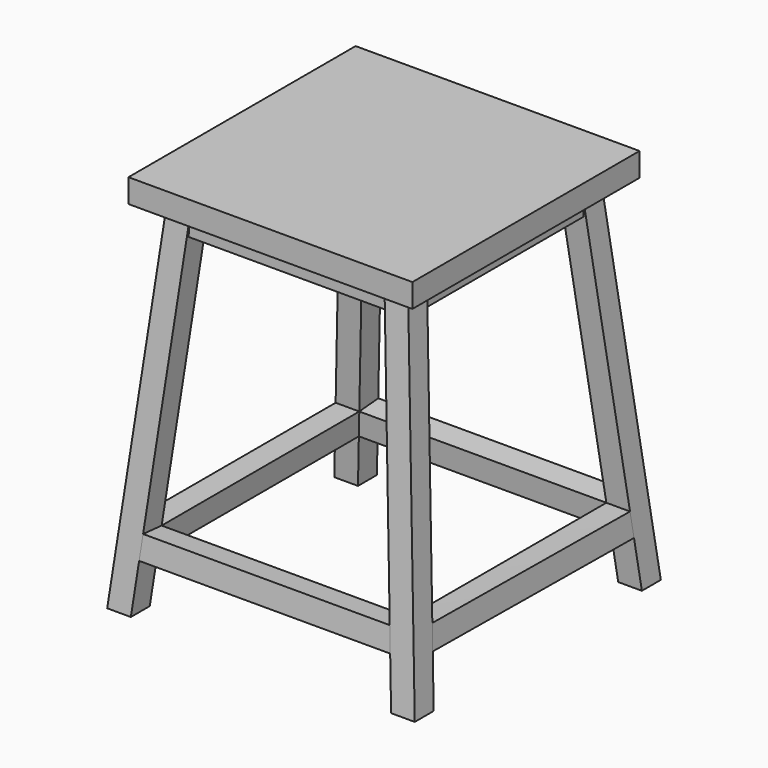
from build123d import *

# Parameters (mm, degrees)
F0_W      = 50
F0_H      = 50
F2_W      = 50
F2_H      = 50
F3_W      = 600
F3_H      = 600
F8_DEPTH  = 50
F9_W      = 409.375
F9_H      = 409.375
F10_DEPTH = 50


with BuildPart() as f4:
    # F0 (on Top) → F4 section 0
    with BuildSketch(Plane.XY):
        with Locations((-225, -225)):
            Rectangle(F0_W, F0_H)
    # F2 (on offset) → F4 section 1
    with BuildSketch(Plane.XY.offset(-800)):
        with Locations((-300, -300)):
            Rectangle(F2_W, F2_H)
    loft()



with BuildPart() as f5:
    # F0 (on Top) → F5 section 0
    with BuildSketch(Plane.XY):
        with Locations((225, -225)):
            Rectangle(F0_W, F0_H)
    # F2 (on offset) → F5 section 1
    with BuildSketch(Plane.XY.offset(-800)):
        with Locations((300, -300)):
            Rectangle(F2_W, F2_H)
    loft()


with BuildPart() as f6:
    # F0 (on Top) → F6 section 0
    with BuildSketch(Plane.XY):
        with Locations((-225, 225)):
            Rectangle(F0_W, F0_H)
    # F2 (on offset) → F6 section 1
    with BuildSketch(Plane.XY.offset(-800)):
        with Locations((-300, 300)):
            Rectangle(F2_W, F2_H)
    loft()


with BuildPart() as f7:
    # F0 (on Top) → F7 section 0
    with BuildSketch(Plane.XY):
        with Locations((225, 225)):
            Rectangle(F0_W, F0_H)
    # F2 (on offset) → F7 section 1
    with BuildSketch(Plane.XY.offset(-800)):
        with Locations((300, 300)):
            Rectangle(F2_W, F2_H)
    loft()


with BuildPart() as f4_1:
    add(f4.part)

    add(f5.part)  # F8 merges F5

    add(f6.part)  # F8 merges F6

    add(f7.part)  # F8 merges F7
    # F3 (on Top) → F8 (join)
    with BuildSketch(Plane.XY):
        Rectangle(F3_W, F3_H)
    extrude(amount=-F8_DEPTH)

    # F9 (on face) → F10 (join)
    with BuildSketch(Plane(origin=(0, 0, -50), x_dir=(1, 0, 0), z_dir=(0, 0, -1))):
        Polygon((254.6875, -254.6875), (254.6875, -204.6875), (254.6875, 204.6875), (254.6875, 254.6875), (204.6875, 254.6875), (-204.6875, 254.6875), (-254.6875, 254.6875), (-254.6875, -254.6875), (-204.6875, -254.6875), (204.6875, -254.6875), align=None)
        Rectangle(F9_W, F9_H, mode=Mode.SUBTRACT)
    extrude(amount=F10_DEPTH)

    # F13 (on face) → F15 section 0
    with BuildSketch(Plane(origin=(-198.2575024201, 0, 18.5866408519), x_dir=(0, 1, 0), z_dir=(0.9956342261, 0, -0.0933407087))):
        Polygon((261.0594902568, -672.8252733026), (265.7063268379, -722.6088741144), (315.2744650336, -717.9821489666), (310.6276284526, -668.1985481548), align=None)
    # F14 (on face) → F15 section 1
    with BuildSketch(Plane(origin=(198.2575024201, 0, 18.5866408519), x_dir=(0, -1, 0), z_dir=(-0.9956342261, 0, -0.0933407087))):
        Polygon((-315.2744650336, -717.9821489666), (-265.7063268379, -722.6088741144), (-261.0594902568, -672.8252733026), (-310.6276284526, -668.1985481548), align=None)
    loft()

    # F12 (on face) → F18 section 0
    with BuildSketch(Plane(origin=(0, 198.2575024201, 18.5866408519), x_dir=(1, 0, 0), z_dir=(0, -0.9956342261, -0.0933407087))):
        Polygon((-315.7063268379, -722.6088741144), (-265.7063268379, -722.6088741144), (-261.0594902568, -672.8252733026), (-311.0594902568, -672.8252733026), align=None)
    # F16 (on face) → F18 section 1
    with BuildSketch(Plane(origin=(0, -198.2575024201, 18.5866408519), x_dir=(-1, 0, 0), z_dir=(0, 0.9956342261, -0.0933407087))):
        Polygon((261.0594902568, -672.8252733026), (265.7063268379, -722.6088741144), (315.7063268379, -722.6088741144), (311.0594902568, -672.8252733026), align=None)
    loft()

    # F17 (on face) → F21 section 0
    with BuildSketch(Plane(origin=(-198.2575024201, 0, 18.5866408519), x_dir=(0, 1, 0), z_dir=(0.9956342261, 0, -0.0933407087))):
        Polygon((-315.2744650336, -717.9821489666), (-265.7063268379, -722.6088741144), (-261.0594902568, -672.8252733026), (-310.6276284526, -668.1985481548), align=None)
    # F19 (on face) → F21 section 1
    with BuildSketch(Plane(origin=(198.2575024201, 0, 18.5866408519), x_dir=(0, -1, 0), z_dir=(-0.9956342261, 0, -0.0933407087))):
        Polygon((261.0594902568, -672.8252733026), (265.7063268379, -722.6088741144), (315.2744650336, -717.9821489666), (310.6276284526, -668.1985481548), align=None)
    loft()

    # F22 (on face) → F23 section 0
    with BuildSketch(Plane(origin=(0, 198.2575024201, 18.5866408519), x_dir=(1, 0, 0), z_dir=(0, -0.9956342261, -0.0933407087))):
        Polygon((261.0594902568, -672.8252733026), (265.7063268379, -722.6088741144), (315.7063268379, -722.6088741144), (311.0594902568, -672.8252733026), align=None)
    # F20 (on face) → F23 section 1
    with BuildSketch(Plane(origin=(0, -198.2575024201, 18.5866408519), x_dir=(-1, 0, 0), z_dir=(0, 0.9956342261, -0.0933407087))):
        Polygon((-315.2744650336, -717.9821489666), (-265.7063268379, -722.6088741144), (-261.0594902568, -672.8252733026), (-310.6276284526, -668.1985481548), align=None)
    loft()


solid = f4_1.part
